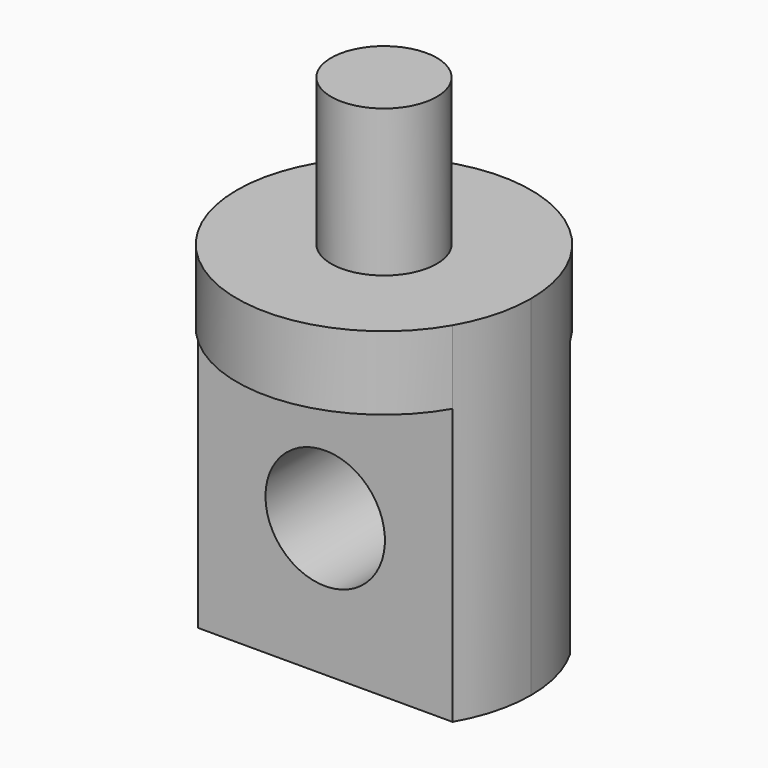
from build123d import *

# Parameters (mm, degrees)
F0_R     = 2.875
F1_DEPTH = 8
F2_DEPTH = 4
F3_DEPTH = 19
F4_R     = 3.25
F5_DEPTH = 25


with BuildPart() as f1:
    # F0 (on Top) → F1 (new body)
    with BuildSketch(Plane.XY):
        Circle(F0_R)
    extrude(amount=F1_DEPTH)

    # F0 (on Top) → F2 (join)
    with BuildSketch(Plane.XY):
        with BuildLine():
            ThreePointArc((-6.928203, -4), (0, -8), (6.928203, -4))
            Line((6.928203, -4), (-6.928203, -4))
        make_face()
        with BuildLine():
            Line((-6.928203, 4), (6.928203, 4))
            ThreePointArc((6.928203, 4), (0, 8), (-6.928203, 4))
        make_face()
        with BuildLine():
            ThreePointArc((6.928203, -4), (7.727407, -2.070552), (8, 0))
            ThreePointArc((8, 0), (7.727407, 2.070552), (6.928203, 4))
            Line((6.928203, 4), (-6.928203, 4))
            ThreePointArc((-6.928203, 4), (-8, 0), (-6.928203, -4))
            Line((-6.928203, -4), (6.928203, -4))
        make_face()
        Circle(F0_R, mode=Mode.SUBTRACT)
        Circle(F0_R)
    extrude(amount=-F2_DEPTH)

    # F0 (on Top) → F3 (join)
    with BuildSketch(Plane.XY):
        with BuildLine():
            ThreePointArc((6.928203, -4), (7.727407, -2.070552), (8, 0))
            ThreePointArc((8, 0), (7.727407, 2.070552), (6.928203, 4))
            Line((6.928203, 4), (-6.928203, 4))
            ThreePointArc((-6.928203, 4), (-8, 0), (-6.928203, -4))
            Line((-6.928203, -4), (6.928203, -4))
        make_face()
        Circle(F0_R, mode=Mode.SUBTRACT)
        Circle(F0_R)
    extrude(amount=-F3_DEPTH)

    # F4 (on face) → F5 (cut)
    with BuildSketch(Plane(origin=(0, 4, 0), x_dir=(-1, 0, 0), z_dir=(0, 1, 0))):
        with Locations((0, -11.5)):
            Circle(F4_R)
    extrude(amount=-F5_DEPTH, mode=Mode.SUBTRACT)


solid = f1.part
